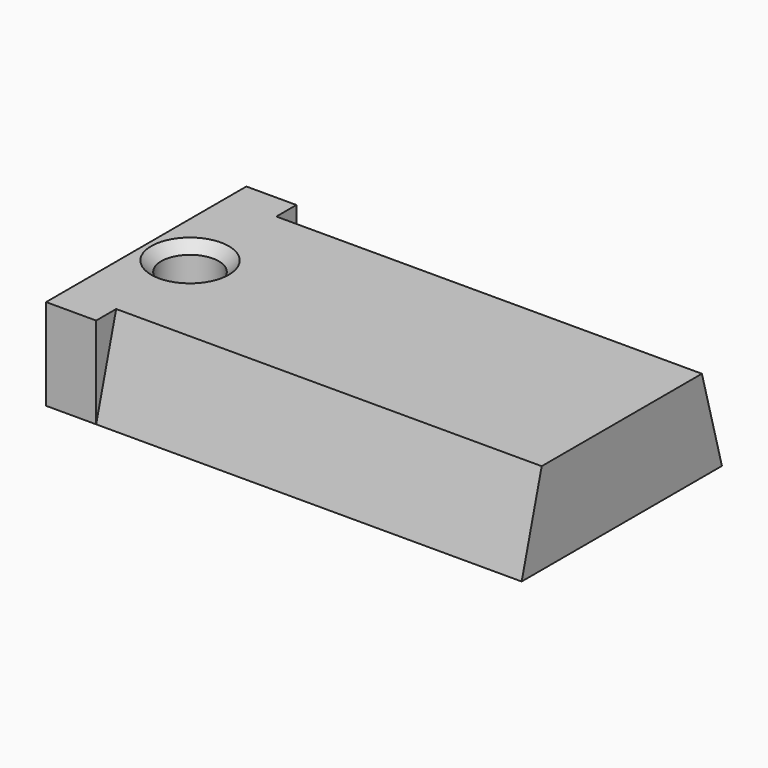
from build123d import *

# Parameters (mm, degrees)
PAD004_DEPTH    = 19
SKETCH019_W     = 10
SKETCH019_H     = 3.65
PAD005_DEPTH    = 2
SKETCH020_R     = 1.15
POCKET016_DEPTH = 3.651
CHAMFER001_SIZE = 0.4


with BuildPart() as part:
    # Sketch018 → Pad004 (new body)
    with BuildSketch(Plane.YZ):
        Polygon((-4, 0), (4, 0), (5, -3.65), (-5, -3.65), align=None)
    extrude(amount=PAD004_DEPTH)

    # Sketch019 (on Face5 of Pad004) → Pad005 (join)
    with BuildSketch(Plane(origin=(0, 0, 0), x_dir=(0, 1, 0), z_dir=(-1, 0, 0))):
        with Locations((0, 1.825)):
            Rectangle(SKETCH019_W, SKETCH019_H)
    extrude(amount=-PAD005_DEPTH)

    # Sketch020 (on Face8 of Pad005) → Pocket016 (cut, through all)
    with BuildSketch(Plane(origin=(0, 0, 0), x_dir=(0, -1, 0), z_dir=(0, 0, 1))):
        with Locations((0, 1.75)):
            Circle(SKETCH020_R)
    extrude(amount=-POCKET016_DEPTH, mode=Mode.SUBTRACT)

    # Chamfer001
    chamfer001_edges = [part.edges().sort_by_distance(p)[0] for p in [
        (1.75, 1.15, 0),
    ]]
    chamfer(chamfer001_edges, length=CHAMFER001_SIZE)


with BuildPart() as part_1:
    # Body001 placement: moved
    add(part.part.moved(Location((-10.75, 0, 14))))


solid = part_1.part
